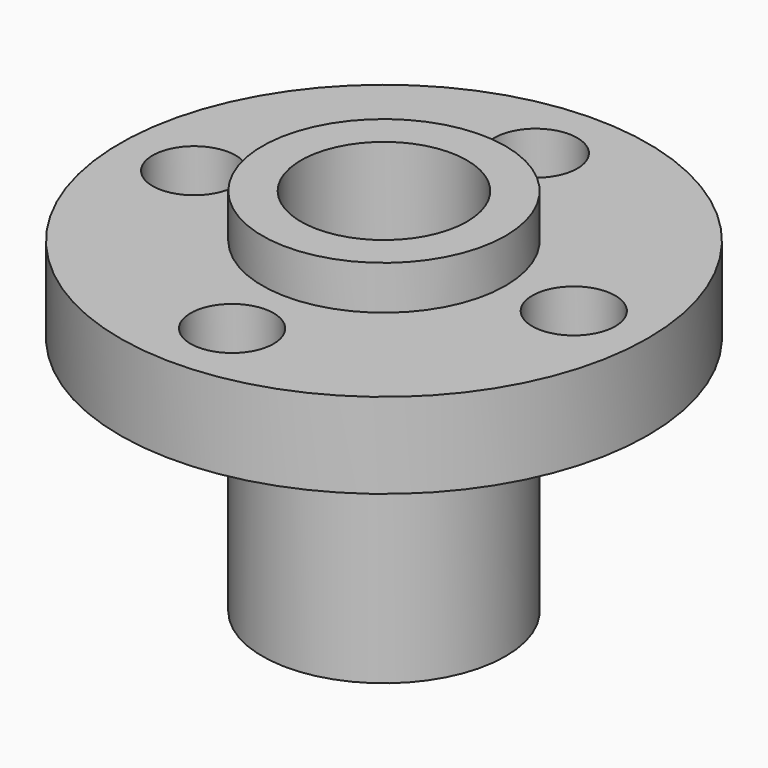
from build123d import *

# Parameters (mm, degrees)
F2_R     = 1.75
F3_DEPTH = 25


with BuildPart() as f1:
    # F0 (on Front) → F1 (revolve)
    with BuildSketch(Plane.XZ):
        Polygon((5.125, 1.85), (3.5, 1.85), (3.5, -13.75), (5.125, -13.75), (5.125, -3.6), (11.125, -3.6), (11.125, 0), (5.125, 0), align=None)
    revolve(axis=Axis((0, 0, -12.131187), (0, 0, -1)))

    # F2 (on face) → F3 (cut)
    with BuildSketch(Plane.XY):
        with Locations((0, 8)):
            Circle(F2_R)
        with Locations((-8, 0)):
            Circle(F2_R)
        with Locations((0, -8)):
            Circle(F2_R)
        with Locations((8, 0)):
            Circle(F2_R)
    extrude(amount=-F3_DEPTH, mode=Mode.SUBTRACT)


solid = f1.part
